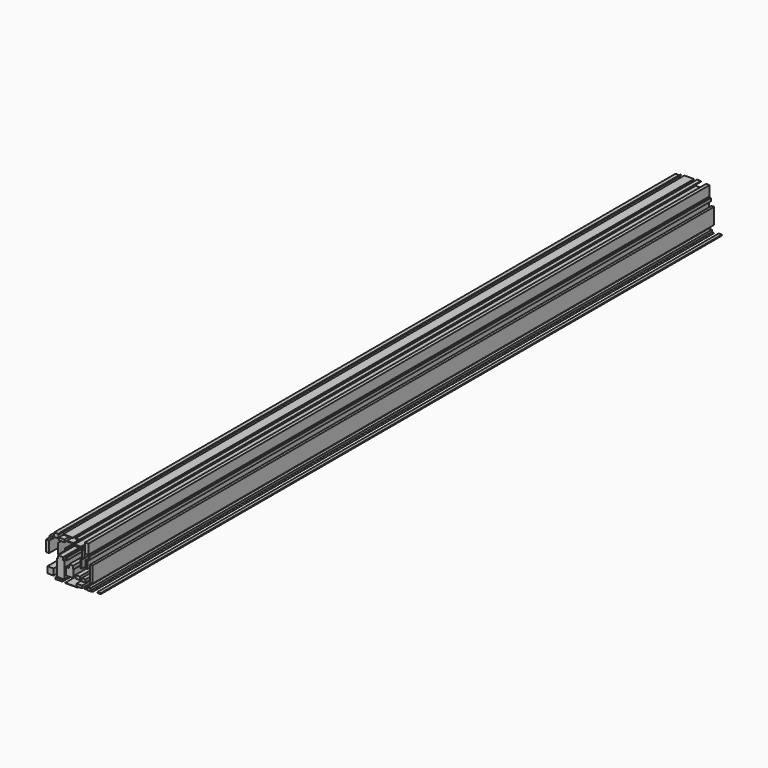
from build123d import *

# Parameters (mm, degrees)
F0_W     = 15.897821635
F0_H     = 10.0156273693
F0_H_2   = 5.2462806925
F1_DEPTH = 2540
F0_W_2   = 4.2924117297
F0_H_3   = 25.7544722408
F0_W_3   = 3.6564953625
F0_H_4   = 5.5642370135
F0_W_4   = 4.4513903558
F0_H_5   = 8.2668672549
F0_W_5   = 12.8772351891
F0_H_6   = 10.8105186373
F0_H_7   = 8.1078913063
F0_W_6   = 14.3080395646
F0_H_8   = 10.3335864842
F0_W_7   = 11.9233652949
F0_H_9   = 9.0617574751
F0_W_8   = 6.6770873964
F0_H_10  = 23.2108188793
F0_W_9   = 8.9027797803
F0_H_11  = 20.6671673805
F0_W_10  = 20.8261450753
F0_H_12  = 4.6103671193
F0_W_11  = 21.4620586485
F0_H_13  = 1.4308020473
F0_W_12  = 18.600448966
F0_H_14  = 8.2668662071
F0_W_13  = 0.1589804888
F0_H_15  = 34.0213391464
F0_W_14  = 17.8055600263
F0_H_16  = 7.789939642
F0_W_15  = 9.8566487432
F0_H_17  = 1.2718290091
F0_W_16  = 9.3797128648
F0_H_18  = 0.9538680315
F0_W_17  = 7.3130019009
F0_H_19  = 7.1540251374
F0_W_18  = 8.2668662071
F0_H_20  = 52.303835284
F0_W_19  = 2.384673804
F0_H_21  = 9.6976719797
F0_W_20  = 11.1284777522
F0_H_22  = 32.2725791484
F0_W_21  = 12.5592797995
F0_H_23  = 2.5436505675
F0_W_22  = 31.3187073916
F0_W_23  = 2.2256933153
F0_H_24  = 1.2718252838
F0_W_24  = 14.4670121372
F0_H_25  = 13.1951905787
F0_W_25  = 9.0617612004
F0_H_26  = 6.8360604346
F0_W_26  = 9.8566561937
F0_H_27  = 36.4060113207
F0_W_27  = 20.5081924796
F0_H_28  = 20.508185029
F0_W_28  = 22.7338820696
F0_H_29  = 6.2001496553
F0_W_29  = 40.8574024914
F0_H_30  = 0.9538754821
F0_W_30  = 10.4925632477
F0_H_31  = 3.0205845833


with BuildPart() as f1:
    # F0 (on Front) → F1 (new body)
    with BuildSketch(Plane.XZ):
        Polygon((-62.6273155212, -14.8433083668), (-67.3966631293, -14.8433083668), (-67.3966631293, -67.6240772009), (-42.9140143096, -67.6240772009), (-42.9140143096, -14.8433083668), (-46.7294938862, -14.8433083668), (-46.7294938862, -20.0895890594), (-62.6273155212, -20.0895890594), align=None)
        with Locations((-54.6784047037, -9.8354946822)):
            Rectangle(F0_W, F0_H)
        with Locations((-54.6784047037, -17.4664487131)):
            Rectangle(F0_W, F0_H_2)
    extrude(amount=F1_DEPTH)


with BuildPart() as f1b:
    # F0 (on Front) → F1, piece 2 (new body)
    with BuildSketch(Plane.XZ):
        with Locations((11.8539808318, -5.7815508917)):
            Rectangle(F0_W_2, F0_H_3)
    extrude(amount=F1_DEPTH)


with BuildPart() as f1c:
    # F0 (on Front) → F1, piece 3 (new body)
    with BuildSketch(Plane.XZ):
        with Locations((-37.9062015563, 20.3703669831)):
            Rectangle(F0_W_3, F0_H_4)
    extrude(amount=F1_DEPTH)


with BuildPart() as f1d:
    # F0 (on Front) → F1, piece 4 (new body)
    with BuildSketch(Plane.XZ):
        with Locations((-35.9189752489, -5.7815503678)):
            Rectangle(F0_W_4, F0_H_5)
    extrude(amount=F1_DEPTH)


with BuildPart() as f1e:
    # F0 (on Front) → F1, piece 5 (new body)
    with BuildSketch(Plane.XZ):
        with Locations((-20.7365537062, -24.69995711)):
            Rectangle(F0_W_5, F0_H_6)
        with Locations((-20.7365537062, -34.1591620818)):
            Rectangle(F0_W_5, F0_H_7)
        Polygon((-27.1751713008, -38.2131077349), (-27.1751713008, -30.1052164286), (-37.6677326858, -30.1052164286), (-37.6677326858, -54.4288828969), (-13.5030448437, -54.4288828969), (-13.5030448437, -30.1052164286), (-14.2979361117, -30.1052164286), (-14.2979361117, -38.2131077349), align=None)
    extrude(amount=F1_DEPTH)


with BuildPart() as f1f:
    # F0 (on Front) → F1, piece 6 (new body)
    with BuildSketch(Plane.XZ):
        with Locations((0.6460163277, -48.1492448598)):
            Rectangle(F0_W_6, F0_H_8)
    extrude(amount=F1_DEPTH)


with BuildPart() as f1g:
    # F0 (on Front) → F1, piece 7 (new body)
    with BuildSketch(Plane.XZ):
        with Locations((19.9618693441, -50.0569809228)):
            Rectangle(F0_W_7, F0_H_9)
    extrude(amount=F1_DEPTH)


with BuildPart() as f1h:
    # F0 (on Front) → F1, piece 8 (new body)
    with BuildSketch(Plane.XZ):
        with Locations((29.8980083317, -1.6481173225)):
            Rectangle(F0_W_8, F0_H_10)
    extrude(amount=F1_DEPTH)


with BuildPart() as f1i:
    # F0 (on Front) → F1, piece 9 (new body)
    with BuildSketch(Plane.XZ):
        with Locations((19.4054455496, 26.3320496306)):
            Rectangle(F0_W_9, F0_H_11)
    extrude(amount=F1_DEPTH)


with BuildPart() as f1j:
    # F0 (on Front) → F1, piece 10 (new body)
    with BuildSketch(Plane.XZ):
        with Locations((0.8844831027, 41.8324247003)):
            Rectangle(F0_W_10, F0_H_12)
    extrude(amount=F1_DEPTH)


with BuildPart() as f1k:
    # F0 (on Front) → F1, piece 11 (new body)
    with BuildSketch(Plane.XZ):
        with Locations((-23.598161526, 45.6479042768)):
            Rectangle(F0_W_11, F0_H_13)
    extrude(amount=F1_DEPTH)


with BuildPart() as f1l:
    # F0 (on Front) → F1, piece 12 (new body)
    with BuildSketch(Plane.XZ):
        with Locations((-51.5783280134, 43.1837402284)):
            Rectangle(F0_W_12, F0_H_14)
    extrude(amount=F1_DEPTH)


with BuildPart() as f1m:
    # F0 (on Front) → F1, piece 13 (new body)
    with BuildSketch(Plane.XZ):
        with Locations((-63.0247592926, 14.2497053603)):
            Rectangle(F0_W_13, F0_H_15)
    extrude(amount=F1_DEPTH)


with BuildPart() as f1n:
    # F0 (on Front) → F1, piece 14 (new body)
    with BuildSketch(Plane.XZ):
        with Locations((6.2102533411, -70.5651715398)):
            Rectangle(F0_W_14, F0_H_16)
    extrude(amount=F1_DEPTH)


with BuildPart() as f1o:
    # F0 (on Front) → F1, piece 15 (new body)
    with BuildSketch(Plane.XZ):
        with Locations((38.0058959126, -73.983207345)):
            Rectangle(F0_W_15, F0_H_17)
        with Locations((28.3877151087, -72.8703588247)):
            Rectangle(F0_W_16, F0_H_18)
        with Locations((38.0058959126, -72.8703588247)):
            Rectangle(F0_W_15, F0_H_18)
        with Locations((46.5907212347, -72.8703588247)):
            Rectangle(F0_W_17, F0_H_18)
        with Locations((38.0058959126, -68.8164122403)):
            Rectangle(F0_W_15, F0_H_19)
    extrude(amount=F1_DEPTH)


with BuildPart() as f1p:
    # F0 (on Front) → F1, piece 16 (new body)
    with BuildSketch(Plane.XZ):
        with Locations((45.9548085928, -23.3486446086)):
            Rectangle(F0_W_18, F0_H_20)
    extrude(amount=F1_DEPTH)


with BuildPart() as f1q:
    # F0 (on Front) → F1, piece 17 (new body)
    with BuildSketch(Plane.XZ):
        with Locations((39.1982328147, 20.5293446779)):
            Rectangle(F0_W_19, F0_H_21)
    extrude(amount=F1_DEPTH)


with BuildPart() as f1r:
    # F0 (on Front) → F1, piece 18 (new body)
    with BuildSketch(Plane.XZ):
        with Locations((30.0569869578, 44.5350548252)):
            Rectangle(F0_W_20, F0_H_22)
    extrude(amount=F1_DEPTH)


with BuildPart() as f1s:
    # F0 (on Front) → F1, piece 19 (new body)
    with BuildSketch(Plane.XZ):
        with Locations((0.7255054079, 61.7841891944)):
            Rectangle(F0_W_21, F0_H_23)
    extrude(amount=F1_DEPTH)


with BuildPart() as f1t:
    # F0 (on Front) → F1, piece 20 (new body)
    with BuildSketch(Plane.XZ):
        with Locations((-30.9111597016, 60.9098114073)):
            Rectangle(F0_W_22, F0_H_13)
    extrude(amount=F1_DEPTH)


with BuildPart() as f1u:
    # F0 (on Front) → F1, piece 21 (new body)
    with BuildSketch(Plane.XZ):
        with Locations((-58.493880555, 59.5584977418)):
            Rectangle(F0_W_23, F0_H_24)
    extrude(amount=F1_DEPTH)


with BuildPart() as f1v:
    # F0 (on Front) → F1, piece 22 (new body)
    with BuildSketch(Plane.XZ):
        with Locations((-68.5889963061, 50.4172500223)):
            Rectangle(F0_W_24, F0_H_25)
    extrude(amount=F1_DEPTH)


with BuildPart() as f1w:
    # F0 (on Front) → F1, piece 23 (new body)
    with BuildSketch(Plane.XZ):
        with Locations((-86.5535326302, 39.7657062858)):
            Rectangle(F0_W_25, F0_H_26)
    extrude(amount=F1_DEPTH)


with BuildPart() as f1x:
    # F0 (on Front) → F1, piece 24 (new body)
    with BuildSketch(Plane.XZ):
        with Locations((-97.4435433745, 9.8778042011)):
            Rectangle(F0_W_26, F0_H_27)
    extrude(amount=F1_DEPTH)


with BuildPart() as f1y:
    # F0 (on Front) → F1, piece 25 (new body)
    with BuildSketch(Plane.XZ):
        with Locations((-87.984342128, -58.0058917403)):
            Rectangle(F0_W_27, F0_H_28)
    extrude(amount=F1_DEPTH)


with BuildPart() as f1z:
    # F0 (on Front) → F1, piece 26 (new body)
    with BuildSketch(Plane.XZ):
        with Locations((-60.3221282363, -73.2678025961)):
            Rectangle(F0_W_28, F0_H_29)
    extrude(amount=F1_DEPTH)


with BuildPart() as f1ba:
    # F0 (on Front) → F1, piece 27 (new body)
    with BuildSketch(Plane.XZ):
        with Locations((-19.4647284807, -76.8448151648)):
            Rectangle(F0_W_29, F0_H_30)
    extrude(amount=F1_DEPTH)


with BuildPart() as f1bb:
    # F0 (on Front) → F1, piece 28 (new body)
    with BuildSketch(Plane.XZ):
        with Locations((70.7554072142, -70.2472180128)):
            Rectangle(F0_W_30, F0_H_31)
    extrude(amount=F1_DEPTH)


solid = Compound([f1.part, f1b.part, f1c.part, f1d.part, f1e.part, f1f.part, f1g.part, f1h.part, f1i.part, f1j.part, f1k.part, f1l.part, f1m.part, f1n.part, f1o.part, f1p.part, f1q.part, f1r.part, f1s.part, f1t.part, f1u.part, f1v.part, f1w.part, f1x.part, f1y.part, f1z.part, f1ba.part, f1bb.part])
